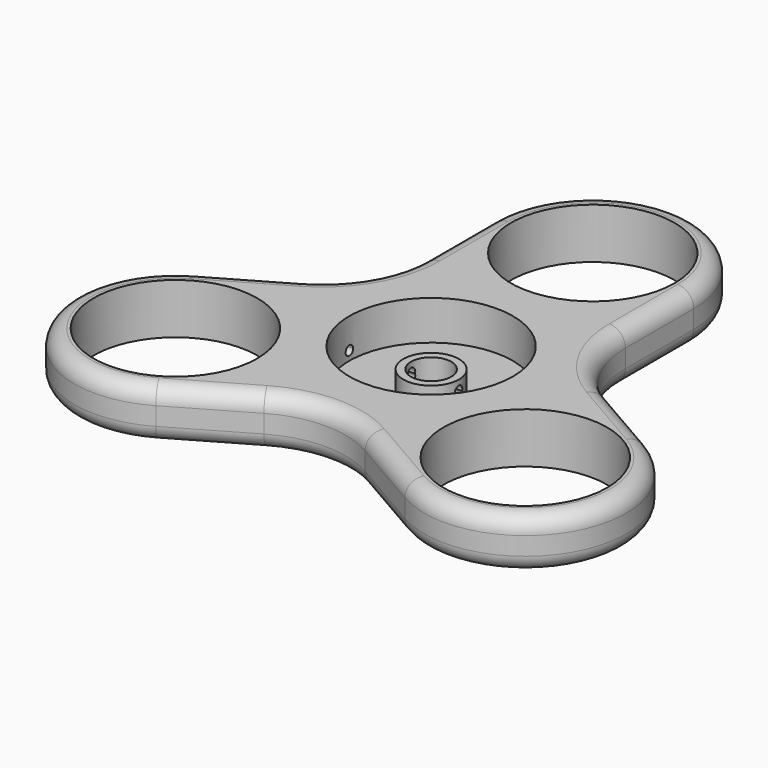
from build123d import *

# Parameters (mm, degrees)
F0_R           = 8.1
F1_DEPTH       = 5
F2_R           = 1.6
F3_R           = 8.5
F3_R_2         = 2.75
F3_R_3         = 2
F4_DEPTH       = 1
F5_DEPTH       = 3
F6_DEPTH       = 0.1
F8_DEPTH       = 4
F8_DEPTH_BACK  = 3
F10_DEPTH      = 25
F10_DEPTH_BACK = 25


with BuildPart() as f1:
    # F0 (on Top) → F1 (new body)
    with BuildSketch(Plane.XY):
        with BuildLine():
            ThreePointArc((10, 20), (0, 30), (-10, 20))
            Line((-10, 20), (-10, 11.5470053838))
            ThreePointArc((-10, 11.5470053838), (-11.3397459622, 6.5470053838), (-15, 2.8867513459))
            Line((-15, 2.8867513459), (-22.3205080757, -1.3397459622))
            ThreePointArc((-22.3205080757, -1.3397459622), (-25.9807621135, -15), (-12.3205080757, -18.6602540378))
            Line((-12.3205080757, -18.6602540378), (-5, -14.4337567297))
            ThreePointArc((-5, -14.4337567297), (0, -13.0940107676), (5, -14.4337567297))
            Line((5, -14.4337567297), (12.3205080757, -18.6602540378))
            ThreePointArc((12.3205080757, -18.6602540378), (25.9807621135, -15), (22.3205080757, -1.3397459622))
            Line((22.3205080757, -1.3397459622), (15, 2.8867513459))
            ThreePointArc((15, 2.8867513459), (11.3397459622, 6.5470053838), (10, 11.5470053838))
            Line((10, 11.5470053838), (10, 20))
        make_face()
        with Locations((-17.3205080757, -10)):
            Circle(F0_R, mode=Mode.SUBTRACT)
        with Locations((17.3205080757, -10)):
            Circle(F0_R, mode=Mode.SUBTRACT)
        Circle(F0_R, mode=Mode.SUBTRACT)
        with Locations((0, 20)):
            Circle(F0_R, mode=Mode.SUBTRACT)
    extrude(amount=F1_DEPTH)

    # F2
    f2_edges = [f1.edges().sort_by_distance(p)[0] for p in [
        (-12.320508, -18.660254, 2.5),
        (-5, -14.433757, 2.5),
        (-8.660254, -16.547005, 0),
        (-8.660254, -16.547005, 5),
    ]]
    fillet(f2_edges, radius=F2_R)


with BuildPart() as f4:
    # F3 (on Top) → F4 (new body)
    with BuildSketch(Plane.XY):
        Circle(F3_R)
        Circle(F3_R_2, mode=Mode.SUBTRACT)
        Circle(F3_R_2)
        Circle(F3_R_3, mode=Mode.SUBTRACT)
    extrude(amount=F4_DEPTH)

    # F3 (on Top) → F5 (join)
    with BuildSketch(Plane.XY):
        Circle(F3_R_2)
        Circle(F3_R_3, mode=Mode.SUBTRACT)
    extrude(amount=F5_DEPTH)

    # F6 (add): a face of the model
    f6_faces = [f4.faces().sort_by_distance(p)[0] for p in [
        (-8.2595836944, 0, 1),
    ]]
    extrude(f6_faces, amount=F6_DEPTH)

    # F7 (on Right) → F8 (cut, two sides)
    with BuildSketch(Plane.YZ) as f8_sk:
        with BuildLine():
            ThreePointArc((0, 1.1400432698), (0.3320853816, 1.2775975387), (0.4696396506, 1.6096829204))
            ThreePointArc((0.4696396506, 1.6096829204), (-0.3320853816, 1.941768302), (0, 1.1400432698))
        make_face()
    extrude(amount=F8_DEPTH, mode=Mode.SUBTRACT)
    extrude(f8_sk.sketch, amount=-F8_DEPTH_BACK, mode=Mode.SUBTRACT)


with BuildPart() as f10_tool:
    # F9 (on Right) → F10 (new body, two sides)
    with BuildSketch(Plane.YZ) as f10_sk:
        with BuildLine():
            ThreePointArc((0, 1.5323682454), (0.3306655848, 1.6693344152), (0.4676317546, 2))
            ThreePointArc((0.4676317546, 2), (-0.3306655848, 2.3306655848), (0, 1.5323682454))
        make_face()
    extrude(amount=F10_DEPTH)
    extrude(f10_sk.sketch, amount=-F10_DEPTH_BACK)


with BuildPart() as f1_1:
    add(f1.part)

    # F10: cut by f10_tool
    add(f10_tool.part, mode=Mode.SUBTRACT)


with BuildPart() as f4_1:
    add(f4.part)

    # F10: cut by f10_tool
    add(f10_tool.part, mode=Mode.SUBTRACT)


solid = Compound([f1_1.part, f4_1.part])
